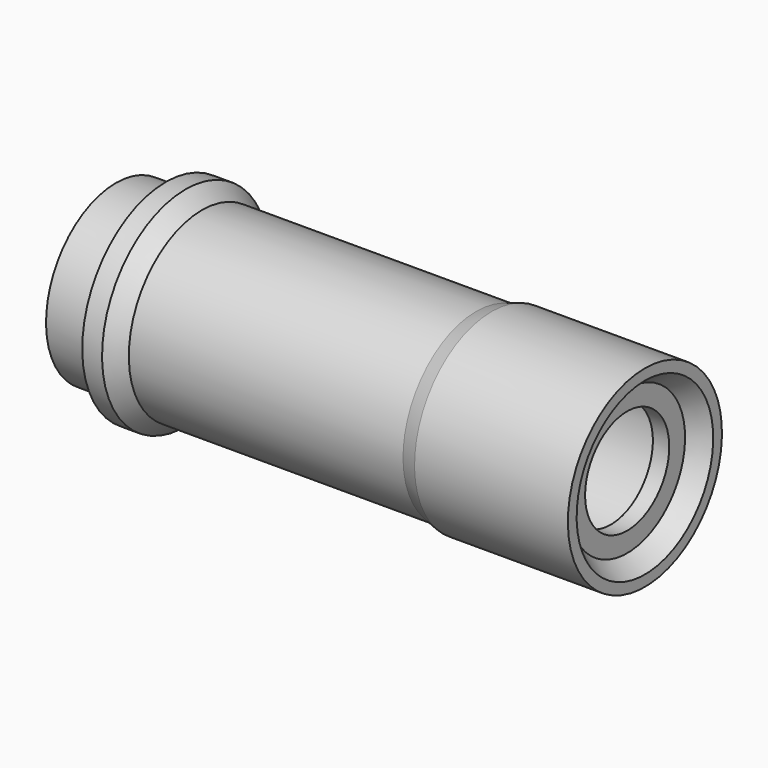
from build123d import *

# Parameters (mm, degrees)
F2_R     = 11.95
F3_DEPTH = 72.45
F4_R     = 7.7
F5_DEPTH = 5.001


with BuildPart() as f1:
    # F0 (on Front) → F1 (revolve)
    with BuildSketch(Plane.XZ):
        Polygon((-34.341893, 12.8), (-34.341893, 0), (40.508107, 0), (40.508107, 10.6), (43.108107, 12.5), (43.108107, 14.1), (20.658107, 14.1), (18.408107, 13.4), (-21.741893, 13.4), (-24.141893, 15.3), (-27.041893, 15.3), (-27.041893, 12.8), align=None)
    revolve(axis=Axis((3.083107, 0, 0), (-1, 0, 0)))

    # F2 (on face) → F3 (cut)
    with BuildSketch(Plane(origin=(-34.341893, 0, 0), x_dir=(0, -1, 0), z_dir=(-1, 0, 0))):
        Circle(F2_R)
    extrude(amount=-F3_DEPTH, mode=Mode.SUBTRACT)

    # F4 (on face) → F5 (cut, through all)
    with BuildSketch(Plane(origin=(38.108107, 0, 0), x_dir=(0, -1, 0), z_dir=(-1, 0, 0))):
        Circle(F4_R)
    extrude(amount=-F5_DEPTH, mode=Mode.SUBTRACT)


solid = f1.part
